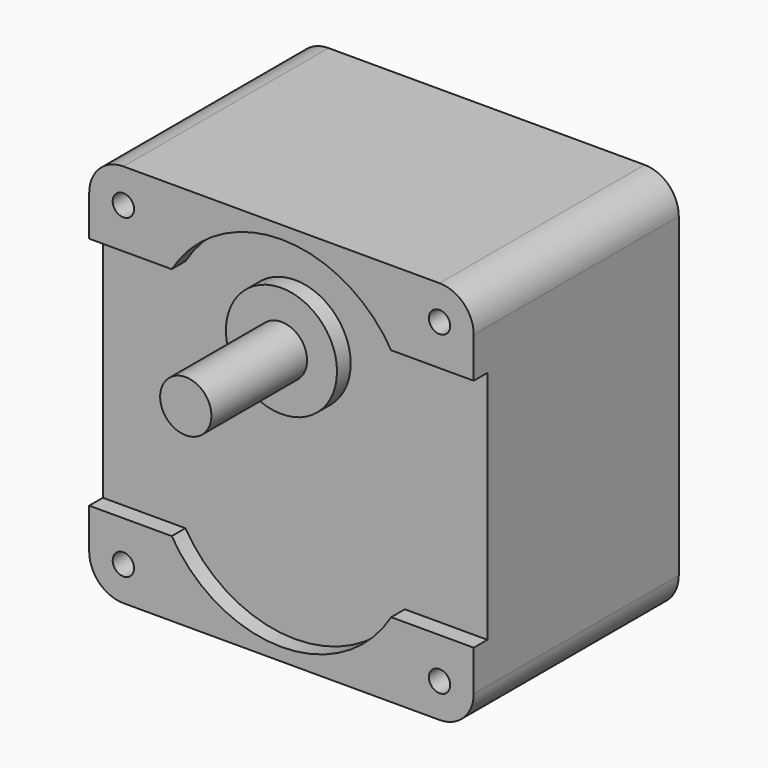
from build123d import *

# Parameters (mm, degrees)
F0_W          = 90
F0_H          = 90
F1_DEPTH      = 30
F1_DEPTH_BACK = 30
F2_R          = 13
F3_DEPTH      = 4
F2_R_2        = 2.5
F4_DEPTH      = 60
F2_R_3        = 6
F5_DEPTH      = 28
F6_R          = 8


with BuildPart() as f1:
    # F0 (on Front) → F1 (new body, two sides)
    with BuildSketch(Plane.XZ) as f1_sk:
        Rectangle(F0_W, F0_H)
    extrude(amount=F1_DEPTH)
    extrude(f1_sk.sketch, amount=-F1_DEPTH_BACK)

    # F2 (on face) → F3 (cut)
    with BuildSketch(Plane.XZ.offset(30)):
        with BuildLine():
            Line((-25.685599, 27.5), (-45, 27.5))
            Line((-45, 27.5), (-45, -27.5))
            Line((-45, -27.5), (-25.685599, -27.5))
            ThreePointArc((-25.685599, -27.5), (0, -42), (25.685599, -27.5))
            Line((25.685599, -27.5), (45, -27.5))
            Line((45, -27.5), (45, 27.5))
            Line((45, 27.5), (25.685599, 27.5))
            ThreePointArc((25.685599, 27.5), (0, 42), (-25.685599, 27.5))
        make_face()
        with Locations((0, 19)):
            Circle(F2_R, mode=Mode.SUBTRACT)
    extrude(amount=-F3_DEPTH, mode=Mode.SUBTRACT)

    # F2 (on face) → F4 (cut)
    with BuildSketch(Plane.XZ.offset(30)):
        with Locations((-37, 37)):
            Circle(F2_R_2)
        with Locations((37, 37)):
            Circle(F2_R_2)
        with Locations((37, -37)):
            Circle(F2_R_2)
        with Locations((-37, -37)):
            Circle(F2_R_2)
    extrude(amount=-F4_DEPTH, mode=Mode.SUBTRACT)

    # F2 (on face) → F5 (join)
    with BuildSketch(Plane.XZ.offset(30)):
        with Locations((0, 19)):
            Circle(F2_R_3)
    extrude(amount=F5_DEPTH)

    # F6
    f6_edges = [f1.edges().sort_by_distance(p)[0] for p in [
        (45, 0, 45),
        (45, 0, -45),
        (-45, 0, -45),
        (-45, 0, 45),
    ]]
    fillet(f6_edges, radius=F6_R)


solid = f1.part
